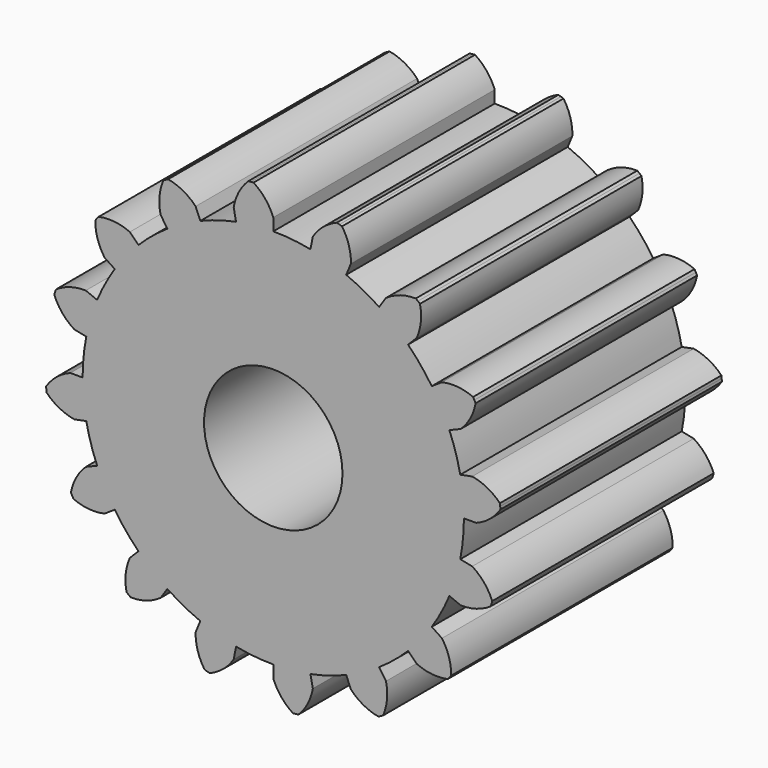
from build123d import *

# Parameters (mm, degrees)
F0_R     = 1.5875
F1_DEPTH = 6.35


with BuildPart() as f1:
    # F0 (on Front) → F1 (new body)
    with BuildSketch(Plane.XZ):
        with BuildLine():
            ThreePointArc((0, 4.653198), (-0.181622, 4.967595), (-0.451324, 5.210686))
            ThreePointArc((-0.451324, 5.210686), (-0.481995, 5.207938), (-0.512649, 5.20501))
            ThreePointArc((-0.512649, 5.20501), (-0.543285, 5.201901), (-0.573903, 5.198613))
            ThreePointArc((-0.573903, 5.198613), (-0.790998, 4.907577), (-0.907794, 4.563788))
            Line((-0.907794, 4.563788), (-0.853047, 4.288558))
            ThreePointArc((-0.853047, 4.288558), (-1.269292, 4.184294), (-1.673312, 4.039734))
            Line((-1.673312, 4.039734), (-1.780702, 4.298995))
            ThreePointArc((-1.780702, 4.298995), (-2.068813, 4.519956), (-2.411012, 4.641332))
            ThreePointArc((-2.411012, 4.641332), (-2.438297, 4.627056), (-2.465497, 4.61262))
            ThreePointArc((-2.465497, 4.61262), (-2.492612, 4.598024), (-2.51964, 4.583269))
            ThreePointArc((-2.51964, 4.583269), (-2.608835, 4.231308), (-2.585178, 3.868993))
            Line((-2.585178, 3.868993), (-2.429273, 3.635664))
            ThreePointArc((-2.429273, 3.635664), (-2.773933, 3.380047), (-3.091878, 3.091878))
            Line((-3.091878, 3.091878), (-3.290308, 3.290308))
            ThreePointArc((-3.290308, 3.290308), (-3.641046, 3.384194), (-4.003645, 3.365377))
            ThreePointArc((-4.003645, 3.365377), (-4.02339, 3.341747), (-4.042995, 3.318))
            ThreePointArc((-4.042995, 3.318), (-4.06246, 3.294139), (-4.081785, 3.270164))
            ThreePointArc((-4.081785, 3.270164), (-4.029501, 2.910861), (-3.868993, 2.585178))
            Line((-3.868993, 2.585178), (-3.635664, 2.429273))
            ThreePointArc((-3.635664, 2.429273), (-3.856268, 2.061218), (-4.039734, 1.673312))
            Line((-4.039734, 1.673312), (-4.298995, 1.780702))
            ThreePointArc((-4.298995, 1.780702), (-4.658963, 1.73322), (-4.98676, 1.577074))
            ThreePointArc((-4.98676, 1.577074), (-4.995959, 1.547687), (-5.004984, 1.518245))
            ThreePointArc((-5.004984, 1.518245), (-5.013837, 1.488752), (-5.022515, 1.459206))
            ThreePointArc((-5.022515, 1.459206), (-4.836712, 1.147262), (-4.563788, 0.907794))
            Line((-4.563788, 0.907794), (-4.288558, 0.853047))
            ThreePointArc((-4.288558, 0.853047), (-4.351521, 0.428587), (-4.372576, 0))
            Line((-4.372576, 0), (-4.653198, 0))
            ThreePointArc((-4.653198, 0), (-4.967595, -0.181622), (-5.210686, -0.451324))
            ThreePointArc((-5.210686, -0.451324), (-5.207938, -0.481995), (-5.20501, -0.512649))
            ThreePointArc((-5.20501, -0.512649), (-5.201901, -0.543285), (-5.198613, -0.573903))
            ThreePointArc((-5.198613, -0.573903), (-4.907577, -0.790998), (-4.563788, -0.907794))
            Line((-4.563788, -0.907794), (-4.288558, -0.853047))
            ThreePointArc((-4.288558, -0.853047), (-4.184294, -1.269292), (-4.039734, -1.673312))
            Line((-4.039734, -1.673312), (-4.298995, -1.780702))
            ThreePointArc((-4.298995, -1.780702), (-4.519956, -2.068813), (-4.641332, -2.411012))
            ThreePointArc((-4.641332, -2.411012), (-4.627056, -2.438297), (-4.61262, -2.465497))
            ThreePointArc((-4.61262, -2.465497), (-4.598024, -2.492612), (-4.583269, -2.51964))
            ThreePointArc((-4.583269, -2.51964), (-4.231308, -2.608835), (-3.868993, -2.585178))
            Line((-3.868993, -2.585178), (-3.635664, -2.429273))
            ThreePointArc((-3.635664, -2.429273), (-3.380047, -2.773933), (-3.091878, -3.091878))
            Line((-3.091878, -3.091878), (-3.290308, -3.290308))
            ThreePointArc((-3.290308, -3.290308), (-3.384194, -3.641046), (-3.365377, -4.003645))
            ThreePointArc((-3.365377, -4.003645), (-3.341747, -4.02339), (-3.318, -4.042995))
            ThreePointArc((-3.318, -4.042995), (-3.294139, -4.06246), (-3.270164, -4.081785))
            ThreePointArc((-3.270164, -4.081785), (-2.910861, -4.029501), (-2.585178, -3.868993))
            Line((-2.585178, -3.868993), (-2.429273, -3.635664))
            ThreePointArc((-2.429273, -3.635664), (-2.061218, -3.856268), (-1.673312, -4.039734))
            Line((-1.673312, -4.039734), (-1.780702, -4.298995))
            ThreePointArc((-1.780702, -4.298995), (-1.73322, -4.658963), (-1.577074, -4.98676))
            ThreePointArc((-1.577074, -4.98676), (-1.547687, -4.995959), (-1.518245, -5.004984))
            ThreePointArc((-1.518245, -5.004984), (-1.488752, -5.013837), (-1.459206, -5.022515))
            ThreePointArc((-1.459206, -5.022515), (-1.147262, -4.836712), (-0.907794, -4.563788))
            Line((-0.907794, -4.563788), (-0.853047, -4.288558))
            ThreePointArc((-0.853047, -4.288558), (-0.428587, -4.351521), (0, -4.372576))
            Line((0, -4.372576), (0, -4.653198))
            ThreePointArc((0, -4.653198), (0.181622, -4.967595), (0.451324, -5.210686))
            ThreePointArc((0.451324, -5.210686), (0.481995, -5.207938), (0.512649, -5.20501))
            ThreePointArc((0.512649, -5.20501), (0.543285, -5.201901), (0.573903, -5.198613))
            ThreePointArc((0.573903, -5.198613), (0.790998, -4.907577), (0.907794, -4.563788))
            Line((0.907794, -4.563788), (0.853047, -4.288558))
            ThreePointArc((0.853047, -4.288558), (1.269292, -4.184294), (1.673312, -4.039734))
            Line((1.673312, -4.039734), (1.780702, -4.298995))
            ThreePointArc((1.780702, -4.298995), (2.068813, -4.519956), (2.411012, -4.641332))
            ThreePointArc((2.411012, -4.641332), (2.438297, -4.627056), (2.465497, -4.61262))
            ThreePointArc((2.465497, -4.61262), (2.492612, -4.598024), (2.51964, -4.583269))
            ThreePointArc((2.51964, -4.583269), (2.608835, -4.231308), (2.585178, -3.868993))
            Line((2.585178, -3.868993), (2.429273, -3.635664))
            ThreePointArc((2.429273, -3.635664), (2.773933, -3.380047), (3.091878, -3.091878))
            Line((3.091878, -3.091878), (3.290308, -3.290308))
            ThreePointArc((3.290308, -3.290308), (3.641046, -3.384194), (4.003645, -3.365377))
            ThreePointArc((4.003645, -3.365377), (4.02339, -3.341747), (4.042995, -3.318))
            ThreePointArc((4.042995, -3.318), (4.06246, -3.294139), (4.081785, -3.270164))
            ThreePointArc((4.081785, -3.270164), (4.029501, -2.910861), (3.868993, -2.585178))
            Line((3.868993, -2.585178), (3.635664, -2.429273))
            ThreePointArc((3.635664, -2.429273), (3.856268, -2.061218), (4.039734, -1.673312))
            Line((4.039734, -1.673312), (4.298995, -1.780702))
            ThreePointArc((4.298995, -1.780702), (4.658963, -1.73322), (4.98676, -1.577074))
            ThreePointArc((4.98676, -1.577074), (4.995959, -1.547687), (5.004984, -1.518245))
            ThreePointArc((5.004984, -1.518245), (5.013837, -1.488752), (5.022515, -1.459206))
            ThreePointArc((5.022515, -1.459206), (4.836712, -1.147262), (4.563788, -0.907794))
            Line((4.563788, -0.907794), (4.288558, -0.853047))
            ThreePointArc((4.288558, -0.853047), (4.351521, -0.428587), (4.372576, 0))
            Line((4.372576, 0), (4.653198, 0))
            ThreePointArc((4.653198, 0), (4.967595, 0.181622), (5.210686, 0.451324))
            ThreePointArc((5.210686, 0.451324), (5.207938, 0.481995), (5.20501, 0.512649))
            ThreePointArc((5.20501, 0.512649), (5.201901, 0.543285), (5.198613, 0.573903))
            ThreePointArc((5.198613, 0.573903), (4.907577, 0.790998), (4.563788, 0.907794))
            Line((4.563788, 0.907794), (4.288558, 0.853047))
            ThreePointArc((4.288558, 0.853047), (4.184294, 1.269292), (4.039734, 1.673312))
            Line((4.039734, 1.673312), (4.298995, 1.780702))
            ThreePointArc((4.298995, 1.780702), (4.519956, 2.068813), (4.641332, 2.411012))
            ThreePointArc((4.641332, 2.411012), (4.627056, 2.438297), (4.61262, 2.465497))
            ThreePointArc((4.61262, 2.465497), (4.598024, 2.492612), (4.583269, 2.51964))
            ThreePointArc((4.583269, 2.51964), (4.231308, 2.608835), (3.868993, 2.585178))
            Line((3.868993, 2.585178), (3.635664, 2.429273))
            ThreePointArc((3.635664, 2.429273), (3.380047, 2.773933), (3.091878, 3.091878))
            Line((3.091878, 3.091878), (3.290308, 3.290308))
            ThreePointArc((3.290308, 3.290308), (3.384194, 3.641046), (3.365377, 4.003645))
            ThreePointArc((3.365377, 4.003645), (3.341747, 4.02339), (3.318, 4.042995))
            ThreePointArc((3.318, 4.042995), (3.294139, 4.06246), (3.270164, 4.081785))
            ThreePointArc((3.270164, 4.081785), (2.910861, 4.029501), (2.585178, 3.868993))
            Line((2.585178, 3.868993), (2.429273, 3.635664))
            ThreePointArc((2.429273, 3.635664), (2.061218, 3.856268), (1.673312, 4.039734))
            Line((1.673312, 4.039734), (1.780702, 4.298995))
            ThreePointArc((1.780702, 4.298995), (1.73322, 4.658963), (1.577074, 4.98676))
            ThreePointArc((1.577074, 4.98676), (1.547687, 4.995959), (1.518245, 5.004984))
            ThreePointArc((1.518245, 5.004984), (1.488752, 5.013837), (1.459206, 5.022515))
            ThreePointArc((1.459206, 5.022515), (1.147262, 4.836712), (0.907794, 4.563788))
            Line((0.907794, 4.563788), (0.853047, 4.288558))
            ThreePointArc((0.853047, 4.288558), (0.428587, 4.351521), (0, 4.372576))
            Line((0, 4.372576), (0, 4.653198))
        make_face()
        Circle(F0_R, mode=Mode.SUBTRACT)
    extrude(amount=F1_DEPTH)


solid = f1.part
